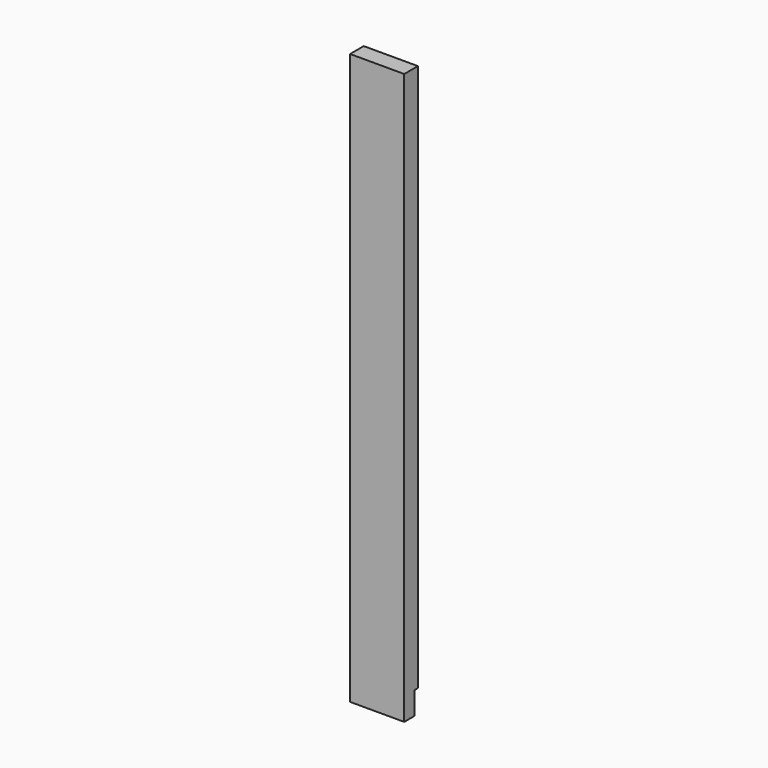
from build123d import *

# Parameters (mm, degrees)
F0_W     = 190
F0_H     = 2000
F1_DEPTH = 60
F2_W     = 15
F2_H     = 80
F3_DEPTH = 190.001


with BuildPart() as f1:
    # F0 (on Front) → F1 (new body)
    with BuildSketch(Plane.XZ):
        with Locations((95, -4224.715435)):
            Rectangle(F0_W, F0_H)
    extrude(amount=F1_DEPTH)

    # F2 (on face) → F3 (cut, through all)
    with BuildSketch(Plane(origin=(0, 0, 0), x_dir=(0, -1, 0), z_dir=(-1, 0, 0))):
        with Locations((7.5, -5184.715435)):
            Rectangle(F2_W, F2_H)
    extrude(amount=-F3_DEPTH, mode=Mode.SUBTRACT)


solid = f1.part
